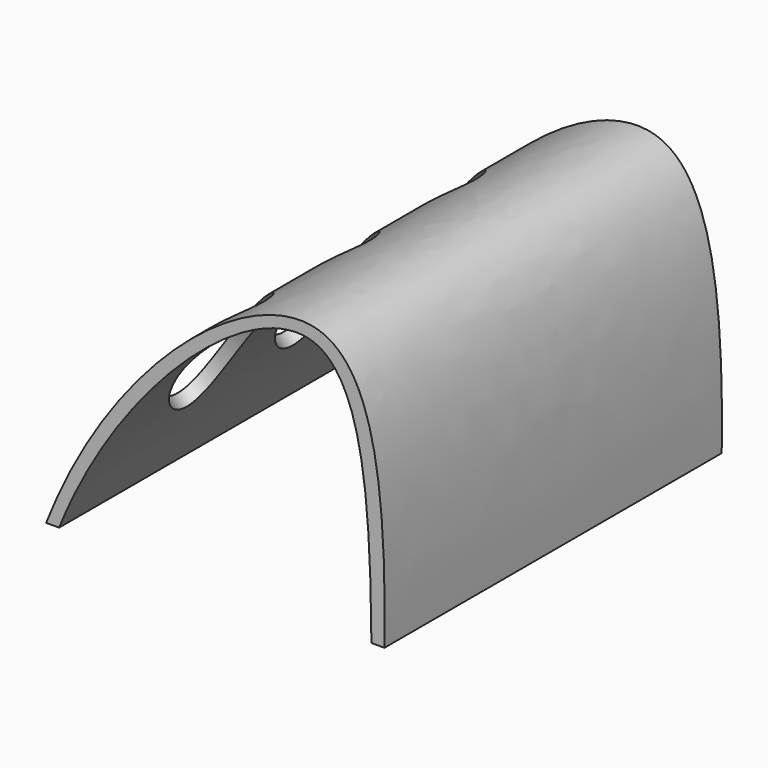
from build123d import *

# Parameters (mm, degrees)
F1_DEPTH = 162
F5_DEPTH = 70.468843009


with BuildPart() as f1:
    # F0 (on Front) → F1 (new body)
    with BuildSketch(Plane.XZ):
        with BuildLine():
            add(Edge.make_bspline(
                [(0, 0), (24.5736092329, 62.7696141601), (117.2185448743, 139.7191932318), (130.9567844149, 59.3110096238), (130, 0)],
                knots=[0, 0, 0, 0, 0.5393500109, 1, 1, 1, 1], degree=3))
            Line((0, 0), (5, 0))
            add(Edge.make_bspline(
                [(125, 0), (124.5901668224, 45.3677258558), (119.4291217518, 140.5349487703), (27.6110395789, 56.5566308796), (5, 0)],
                knots=[0, 0, 0, 0, 0.4594389575, 1, 1, 1, 1], degree=3))
            Line((125, 0), (130, 0))
        make_face()
    extrude(amount=F1_DEPTH)

    # F4 (on face) → F5 (cut, through all)
    with BuildSketch(Plane(origin=(0, 0, 0), x_dir=(0, 1, 0), z_dir=(0.711625041, 0, -0.7025594644))):
        with BuildLine():
            add(Edge.make_bspline(
                [(-147.8094772279, 113.5282665491), (-174.3968468936, 102.6747939033), (-136.3362056047, 47.4307893238), (-98.2755643159, -7.8132152557), (-109.7488359391, 58.2842619696), (-121.2221075623, 124.381739195), (-147.8094772279, 113.5282665491)],
                knots=[0, 0, 0, 2.0943951024, 2.0943951024, 4.1887902048, 4.1887902048, 6.2831853072, 6.2831853072, 6.2831853072], degree=2, weights=[1, 0.5, 1, 0.5, 1, 0.5, 1]))
        make_face()
        with BuildLine():
            add(Edge.make_bspline(
                [(-96.9094772279, 113.5282665491), (-123.4968468936, 102.6747939033), (-85.4362056047, 47.4307893238), (-47.3755643159, -7.8132152557), (-58.8488359391, 58.2842619696), (-70.3221075623, 124.381739195), (-96.9094772279, 113.5282665491)],
                knots=[0, 0, 0, 2.0943951024, 2.0943951024, 4.1887902048, 4.1887902048, 6.2831853072, 6.2831853072, 6.2831853072], degree=2, weights=[1, 0.5, 1, 0.5, 1, 0.5, 1]))
        make_face()
        with BuildLine():
            add(Edge.make_bspline(
                [(-46.0094772279, 113.5282665491), (-72.5968468936, 102.6747939033), (-34.5362056047, 47.4307893238), (3.5244356841, -7.8132152557), (-7.9488359391, 58.2842619696), (-19.4221075623, 124.381739195), (-46.0094772279, 113.5282665491)],
                knots=[0, 0, 0, 2.0943951024, 2.0943951024, 4.1887902048, 4.1887902048, 6.2831853072, 6.2831853072, 6.2831853072], degree=2, weights=[1, 0.5, 1, 0.5, 1, 0.5, 1]))
        make_face()
    extrude(amount=-F5_DEPTH, mode=Mode.SUBTRACT)


solid = f1.part
